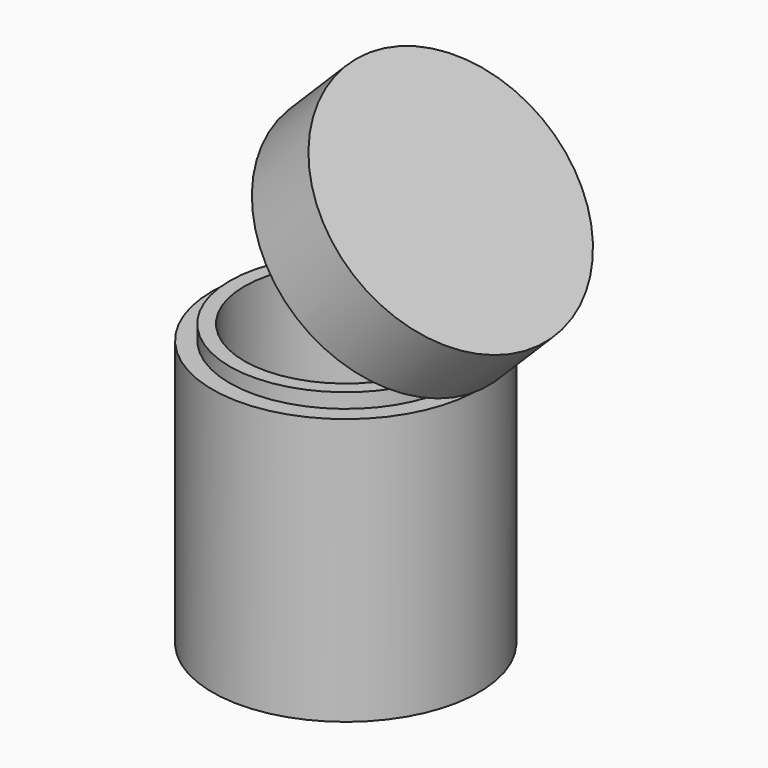
from build123d import *

# Parameters (mm, degrees)
BODY002_PLACEMENT_ANGLE = 45


with BuildPart() as body002_clone:
    # Sketch → Revolution (revolve)
    with BuildSketch(Plane.XZ):
        Polygon((0, 15), (-25, 15), (-25, 0), (-22, 0), (-22, 3), (-19, 3), (-19, 13), (0, 13), align=None)
    revolve(axis=Axis((0, 0, 0), (0, 0, 1)))


with BuildPart() as body002_clone_1:
    # Body002 placement: moved
    add(body002_clone.part.moved(Location((68.592388, 0, 18.892388))).rotate(Axis((68.592388, 0, 18.892388), (0, 1, 0)), BODY002_PLACEMENT_ANGLE))


with BuildPart() as body003_clone:
    # Sketch001 → Revolution001 (revolve)
    with BuildSketch(Plane.XZ):
        Polygon((0, -50), (-25, -50), (-25, 0), (-21.75, 0), (-21.75, 2.75), (-19, 2.75), (-19, -48), (0, -48), align=None)
    revolve(axis=Axis((0, 0, 0), (0, 0, 1)))


with BuildPart() as body003_clone_1:
    # Body003 placement: moved
    add(body003_clone.part.moved(Location((59.5, 0, 0))))


solid = Compound([body002_clone_1.part, body003_clone_1.part])
